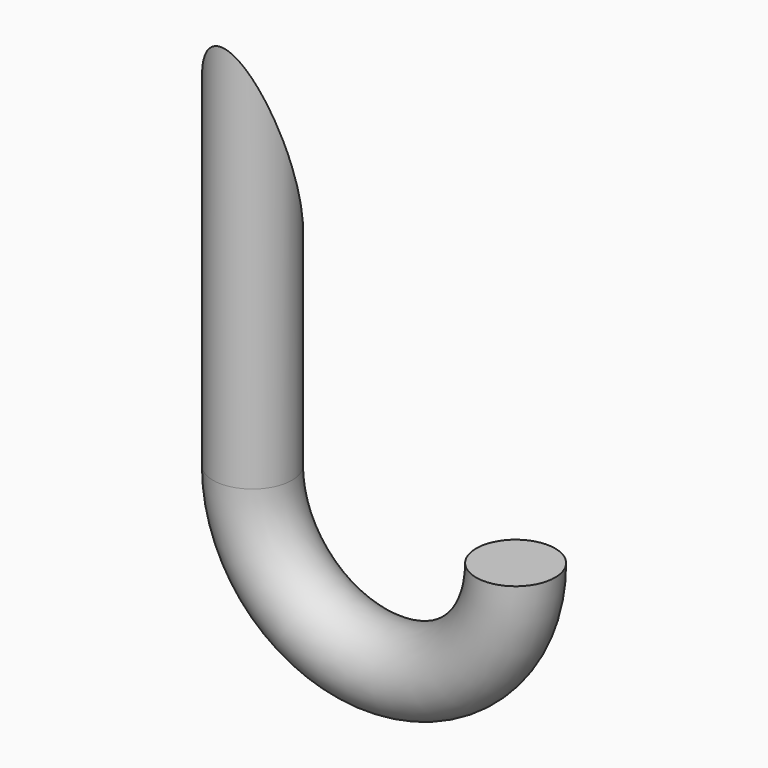
from build123d import *

# Parameters (mm, degrees)
BOX_W                 = 12
BOX_H                 = 8
BOX_DEPTH             = 23
BOX_ROLL_ANGLE        = 20
TORUS_R               = 3
TORUS_ANGLE           = 180
TORUS_ROLL_ANGLE      = -90
TORUS_PLACEMENT_ANGLE = 180
CYLINDER_R            = 3
CYLINDER_DEPTH        = 30


with BuildPart() as pared:
    # Box → Box (new body)
    with BuildSketch(Plane.XY):
        with Locations((6, 4)):
            Rectangle(BOX_W, BOX_H)
    extrude(amount=BOX_DEPTH)


with BuildPart() as pared_1:
    # Box roll: moved
    add(pared.part.rotate(Axis((0, 0, 0), (1, 0, 0)), BOX_ROLL_ANGLE))


with BuildPart() as pared_2:
    # Box placement: moved
    add(pared_1.part.moved(Location((-6, 4, 10))))


with BuildPart() as torus:
    # Torus → Torus (revolve)
    with BuildSketch(Plane.XZ):
        with Locations((10, 0)):
            Circle(TORUS_R)
    revolve(axis=Axis((0, 0, 0), (0, 0, 1)), revolution_arc=TORUS_ANGLE)


with BuildPart() as torus_1:
    # Torus roll: moved
    add(torus.part.rotate(Axis((0, 0, 0), (1, 0, 0)), TORUS_ROLL_ANGLE))


with BuildPart() as torus_2:
    # Torus placement: moved
    add(torus_1.part.moved(Location((10, 0, 0))).rotate(Axis((10, 0, 0), (0, 0, 1)), TORUS_PLACEMENT_ANGLE))


with BuildPart() as cut:
    # Cylinder → Cylinder (new body)
    with BuildSketch(Plane.XY):
        Circle(CYLINDER_R)
    extrude(amount=CYLINDER_DEPTH)

    # Fusion: union Torus
    add(torus_2.part)

    # Cut: cut pared
    add(pared_2.part, mode=Mode.SUBTRACT)


solid = cut.part
